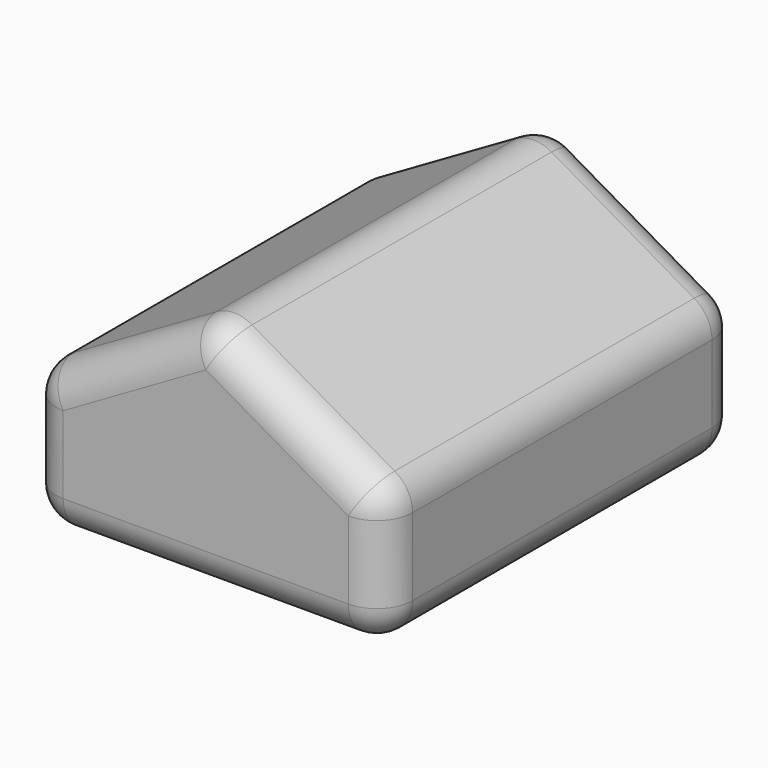
from build123d import *

# Parameters (mm, degrees)
F1_DEPTH = 25
F2_R     = 4


with BuildPart() as f1:
    # F0 (on Front) → F1 (new body, symmetric)
    with BuildSketch(Plane.XZ):
        Polygon((-20, 0), (0, 0), (20, 0), (20, 15), (0, 26.547005), (-20, 15), align=None)
    extrude(amount=F1_DEPTH, both=True)

    # F2
    f2_edges = [f1.edges().sort_by_distance(p)[0] for p in [
        (10, -25, 20.773503),
        (-10, -25, 20.773503),
        (-20, -25, 7.5),
        (0, -25, 0),
        (20, -25, 7.5),
        (-10, 25, 20.773503),
        (-20, 25, 7.5),
        (0, 25, 0),
        (20, 25, 7.5),
        (10, 25, 20.773503),
        (20, 0, 15),
        (20, 0, 0),
        (0, 0, 26.547005),
        (-20, 0, 15),
        (-20, 0, 0),
    ]]
    fillet(f2_edges, radius=F2_R)


solid = f1.part
